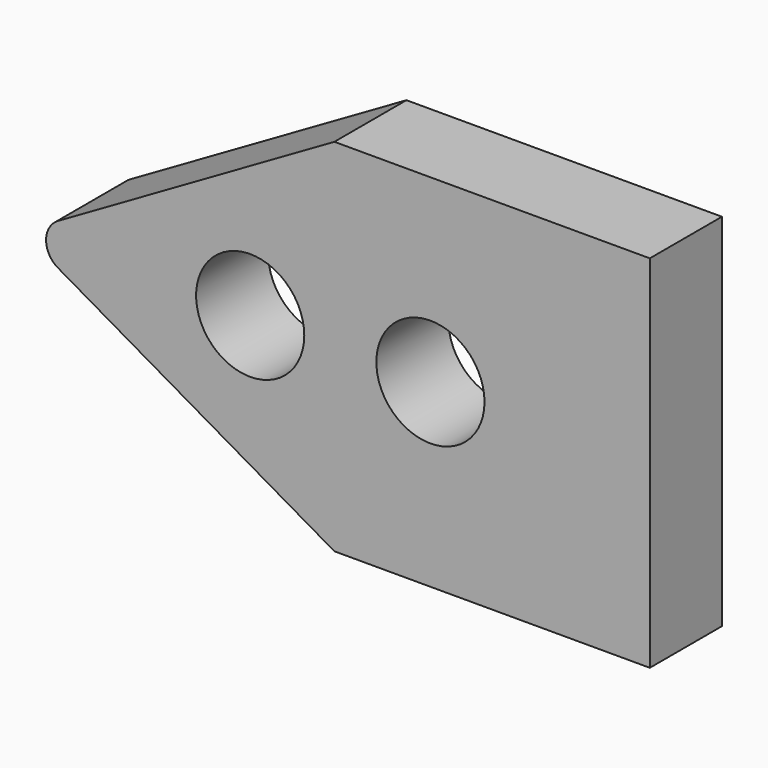
from build123d import *

# Parameters (mm, degrees)
F0_R     = 3
F1_DEPTH = 5


with BuildPart() as f1:
    # F0 (on Front) → F1 (new body)
    with BuildSketch(Plane.XZ):
        with BuildLine():
            ThreePointArc((-41.939133, 12.002374), (-41.906116, 11.982668), (-41.87254, 11.963927))
            Line((-41.87254, 11.963927), (-41.939133, 12.002374))
        make_face()
        with BuildLine():
            Line((-41.939133, 12.002374), (-41.87254, 11.963927))
            Line((-41.87254, 11.963927), (-26.572842, 3.130157))
            Line((-26.572842, 3.130157), (-9.072434, 3.130157))
            Line((-9.072434, 3.130157), (-9.072434, 23.130157))
            Line((-9.072434, 23.130157), (-26.57344, 23.130157))
            Line((-26.57344, 23.130157), (-41.906137, 14.277635))
            ThreePointArc((-41.906137, 14.277635), (-42.568487, 13.149371), (-41.939133, 12.002374))
        make_face()
        with Locations((-31.243626, 13.130157)):
            Circle(F0_R, mode=Mode.SUBTRACT)
        with Locations((-21.243978, 13.130157)):
            Circle(F0_R, mode=Mode.SUBTRACT)
    extrude(amount=F1_DEPTH)


solid = f1.part
